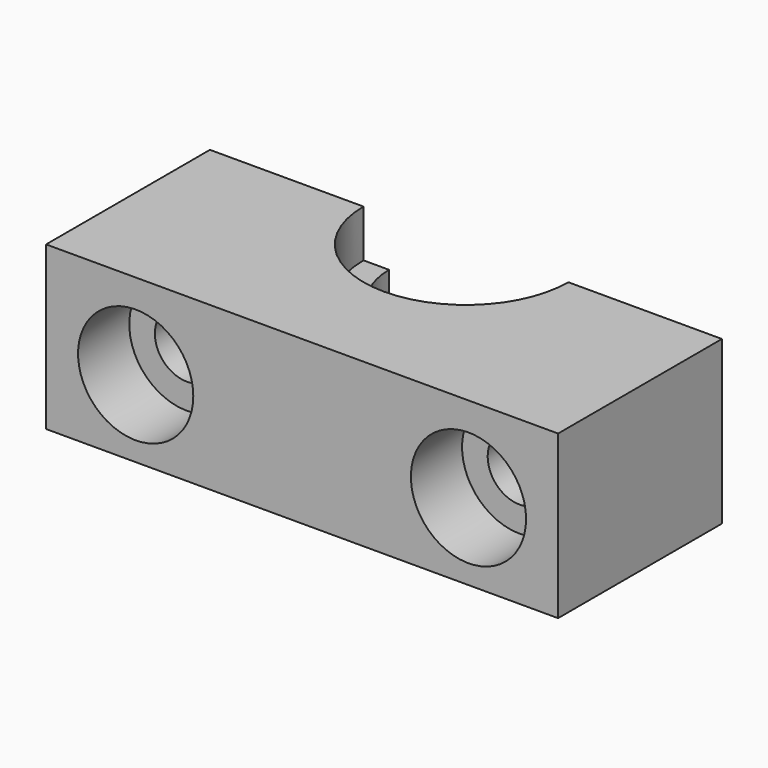
from build123d import *

# Parameters (mm, degrees)
F0_W           = 40
F0_H           = 16
F1_DEPTH       = 12.7
F3_DEPTH       = 3.7
F4_R           = 6
F5_DEPTH       = 6
F6_R           = 8
F7_DEPTH       = 3
F9_D           = 5
F9_CBORE_D     = 9
F9_CBORE_DEPTH = 5


with BuildPart() as f1:
    # F0 (on Top) → F1 (new body)
    with BuildSketch(Plane.XY):
        Rectangle(F0_W, F0_H)
    extrude(amount=F1_DEPTH)

    # F2 (on face) → F3 (cut)
    with BuildSketch(Plane.XY.offset(12.7)):
        with BuildLine():
            ThreePointArc((-8, 8), (0, 0), (8, 8))
            Line((8, 8), (-8, 8))
        make_face()
    extrude(amount=-F3_DEPTH, mode=Mode.SUBTRACT)

    # F4 (on face) → F5 (cut)
    with BuildSketch(Plane.XY.offset(9)):
        with Locations((0, 8)):
            Circle(F4_R)
    extrude(amount=-F5_DEPTH, mode=Mode.SUBTRACT)

    # F6 (on face) → F7 (cut)
    with BuildSketch(Plane.XY.offset(3)):
        with Locations((0, 8)):
            Circle(F6_R)
    extrude(amount=-F7_DEPTH, mode=Mode.SUBTRACT)

    # F9 (through all)
    with Locations(Plane.XZ.offset(8)):
        with Locations((-13, 6), (13, 6)):
            CounterBoreHole(F9_D / 2, F9_CBORE_D / 2, F9_CBORE_DEPTH)


solid = f1.part
